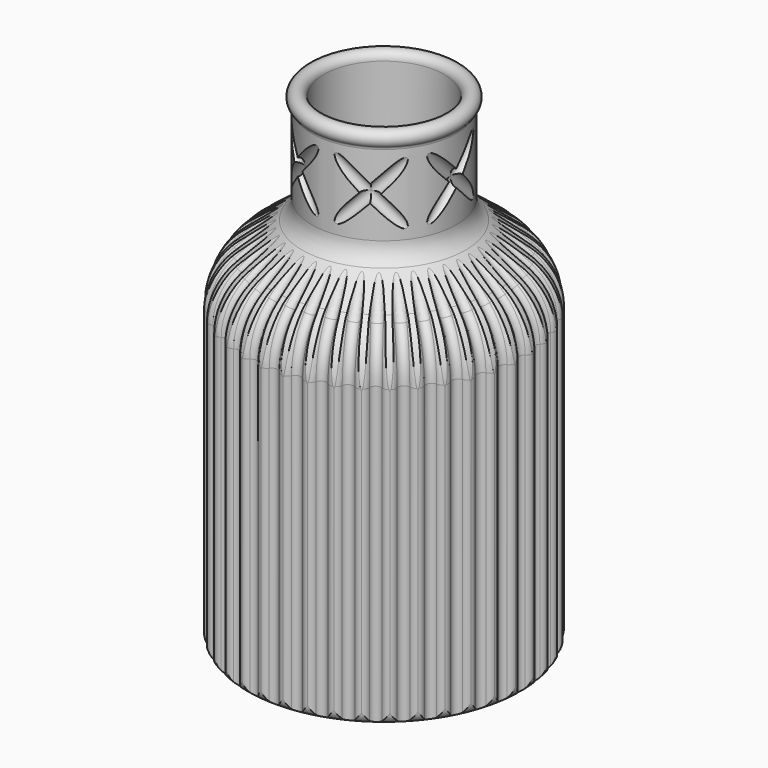
from build123d import *

# Parameters (mm, degrees)
SKETCH002_R           = 1.5
POCKET_DEPTH          = 12.5
SKETCH003_R           = 1.5
POCKET001_DEPTH       = 12.5
POLARPATTERN_COUNT    = 6
POLARPATTERN001_COUNT = 40


with BuildPart() as part:
    # Sketch001 → Revolution (revolve)
    with BuildSketch(Plane.XZ):
        with BuildLine():
            Line((0, 0), (32, 0))
            ThreePointArc((32, 0), (34.12132, 0.87868), (35, 3))
            Line((35, 3), (35, 73.412341))
            ThreePointArc((35, 73.412341), (33.236323, 80.95253), (28.311241, 86.928195))
            Line((20.360739, 92.993631), (28.311241, 86.928195))
            ThreePointArc((18, 97.763932), (18.622474, 95.102689), (20.360739, 92.993631))
            Line((18, 97.763932), (18, 117.763932))
            ThreePointArc((18.333333, 118.509288), (18.087129, 118.17218), (18, 117.763932))
            ThreePointArc((18.333333, 118.509288), (17.816497, 121.825742), (15, 120))
            Line((15, 120), (15, 97.763932))
            ThreePointArc((15, 97.763932), (15.933711, 93.772067), (18.541108, 90.60848))
            Line((18.541108, 90.60848), (26.49161, 84.543044))
            ThreePointArc((32, 73.412341), (30.54756, 79.621908), (26.49161, 84.543044))
            Line((32, 73.412341), (32, 3))
            Line((32, 3), (0, 3))
            Line((0, 3), (0, 0))
        make_face()
    revolve(axis=Axis((0, 0, 0), (0, 0, 1)))

    # Sketch002 → Pocket (cut, symmetric)
    with BuildSketch(Plane(origin=(18, 0, 108), x_dir=(1, 0, 0), z_dir=(0, 0.707107, 0.707107))):
        Circle(SKETCH002_R)
    pocket = extrude(amount=POCKET_DEPTH, both=True, mode=Mode.SUBTRACT)

    # Sketch003 → Pocket001 (cut, symmetric)
    with BuildSketch(Plane(origin=(18, 0, 108), x_dir=(1, 0, 0), z_dir=(0, -0.707107, 0.707107))):
        Circle(SKETCH003_R)
    pocket001 = extrude(amount=POCKET001_DEPTH, both=True, mode=Mode.SUBTRACT)

    # PolarPattern: Pocket, Pocket001 ×6 about axis
    polarpattern_axis = Axis((0, 0, 0), (0, 0, 1))
    for i in range(1, POLARPATTERN_COUNT):
        add(pocket.rotate(polarpattern_axis, i * 360 / POLARPATTERN_COUNT), mode=Mode.SUBTRACT)
        add(pocket001.rotate(polarpattern_axis, i * 360 / POLARPATTERN_COUNT), mode=Mode.SUBTRACT)

    # SubtractivePipe: sweep along a path in Sketch004
    with BuildLine(Plane.XZ) as subtractivepipe_path:
        Line((35, 0), (35, 73.973029))
        ThreePointArc((35, 73.973029), (33.625945, 80.668537), (29.725902, 86.281693))
        Line((29.725902, 86.281693), (21.464353, 94.152093))
    # Sketch → SubtractivePipe (sweep, cut)
    with BuildSketch(Plane(origin=(35, 0, 0), x_dir=(1, 0, 0), z_dir=(0, 0, 1))):
        with BuildLine():
            ThreePointArc((-0.834441, 1.246479), (-1.5, 0), (-0.834441, -1.246479))
            ThreePointArc((-0.107893, -2.746068), (-0.267803, -1.897744), (-0.834441, -1.246479))
            Line((1.08363, -2.746068), (-0.107893, -2.746068))
            Line((1.08363, 2.746068), (1.08363, -2.746068))
            Line((-0.107893, 2.746068), (1.08363, 2.746068))
            ThreePointArc((-0.834441, 1.246479), (-0.267803, 1.897744), (-0.107893, 2.746068))
        make_face()
    subtractivepipe = sweep(path=subtractivepipe_path.line, mode=Mode.SUBTRACT)

    # PolarPattern001: SubtractivePipe ×40 about axis
    polarpattern001_axis = Axis((0, 0, 0), (0, 0, 1))
    for i in range(1, POLARPATTERN001_COUNT):
        add(subtractivepipe.rotate(polarpattern001_axis, i * 360 / POLARPATTERN001_COUNT), mode=Mode.SUBTRACT)


solid = part.part
